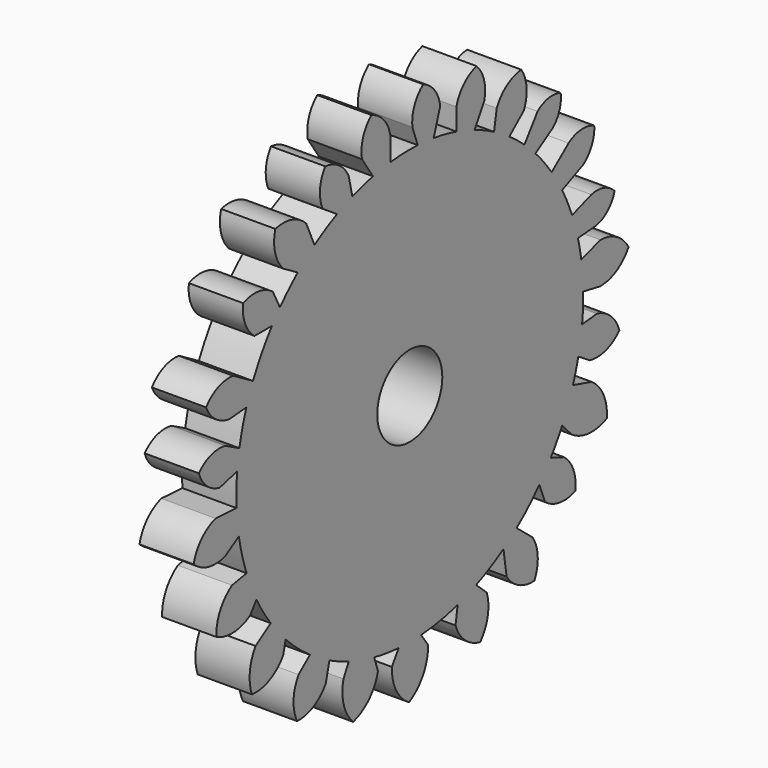
from build123d import *

# Parameters (mm, degrees)
SKETCH002_R  = 7.5
PAD001_DEPTH = 10


with BuildPart() as part:
    # Sketch002 → Pad001 (new body)
    with BuildSketch(Plane.YZ):
        with BuildLine():
            ThreePointArc((-7.372881, -40.094264), (-3.126041, -39.586192), (1.04227, -38.627568))
            Line((1.04227, -38.627568), (0.551182, -41.772804))
            ThreePointArc((0.551182, -41.772804), (2.72771, -45.044909), (6.248691, -46.790371))
            ThreePointArc((6.248691, -46.790371), (7.994153, -43.26939), (7.745277, -39.3474))
            Line((5.322974, -37.131356), (7.745277, -39.3474))
            ThreePointArc((5.322974, -37.131356), (8.537274, -35.628587), (11.605754, -33.846883))
            Line((11.605754, -33.846883), (12.333348, -38.63991))
            ThreePointArc((12.333348, -38.63991), (15.097939, -41.134767), (18.739574, -41.913081))
            ThreePointArc((18.739574, -41.913081), (19.517888, -38.271446), (18.37111, -34.728541))
            Line((14.654104, -31.683604), (18.37111, -34.728541))
            ThreePointArc((14.654104, -31.683604), (17.378229, -29.347876), (19.882066, -26.777412))
            Line((19.882066, -26.777412), (21.219608, -30.122295))
            ThreePointArc((21.219608, -30.122295), (24.552318, -31.581454), (28.168109, -31.178768))
            ThreePointArc((28.168109, -31.178768), (27.765423, -27.562977), (25.608791, -24.632953))
            Line((22.518982, -23.480322), (25.608791, -24.632953))
            ThreePointArc((22.518982, -23.480322), (23.893543, -21.431633), (25.139192, -19.302101))
            Line((25.139192, -19.302101), (27.359533, -21.66958))
            ThreePointArc((27.359533, -21.66958), (31.317426, -23.081877), (35.451211, -22.326017))
            ThreePointArc((35.451211, -22.326017), (34.69535, -18.192232), (31.973863, -14.9902))
            Line((27.63708, -13.740754), (31.973863, -14.9902))
            ThreePointArc((27.63708, -13.740754), (28.311222, -11.699588), (28.874738, -9.625154))
            Line((28.874738, -9.625154), (31.548764, -11.314179))
            ThreePointArc((31.548764, -11.314179), (35.22362, -11.182883), (38.340491, -9.231748))
            ThreePointArc((38.340491, -9.231748), (36.389357, -6.114877), (33.141189, -4.391155))
            Line((29.744589, -4.744157), (33.141189, -4.391155))
            ThreePointArc((29.744589, -4.744157), (29.958098, -2.133322), (30.00026, 0.485889))
            Line((30.00026, 0.485889), (33.921496, -0.257635))
            ThreePointArc((33.921496, -0.257635), (37.68409, 0.725166), (40.451192, 3.457594))
            ThreePointArc((40.451192, 3.457594), (37.718763, 6.224696), (33.968861, 7.254862))
            Line((29.545098, 5.873223), (33.968861, 7.254862))
            ThreePointArc((29.545098, 5.873223), (29.208197, 7.767875), (28.780562, 9.644132))
            Line((28.780562, 9.644132), (33.177289, 10.00993))
            ThreePointArc((33.177289, 10.00993), (35.728214, 11.395702), (37.244494, 13.871278))
            ThreePointArc((37.244494, 13.871278), (34.768918, 15.387558), (31.866866, 15.462907))
            Line((27.436049, 13.925673), (31.866866, 15.462907))
            ThreePointArc((27.436049, 13.925673), (26.375433, 16.470589), (25.142027, 18.936397))
            Line((25.142027, 18.936397), (29.967849, 21.069522))
            ThreePointArc((29.967849, 21.069522), (31.970773, 23.393509), (32.543362, 26.407602))
            ThreePointArc((32.543362, 26.407602), (29.529269, 26.980191), (26.632693, 25.969022))
            Line((22.726486, 22.827517), (26.632693, 25.969022))
            ThreePointArc((22.726486, 22.827517), (20.942152, 25.176066), (18.98961, 27.386747))
            Line((18.98961, 27.386747), (22.859671, 29.824034))
            ThreePointArc((22.859671, 29.824034), (24.506903, 32.07831), (24.80631, 34.854187))
            ThreePointArc((24.80631, 34.854187), (22.030434, 35.153594), (19.476751, 34.02495))
            Line((16.440698, 29.839688), (19.476751, 34.02495))
            ThreePointArc((16.440698, 29.839688), (14.740616, 31.25523), (12.964876, 32.574618))
            Line((12.964876, 32.574618), (16.319999, 35.447081))
            ThreePointArc((16.319999, 35.447081), (16.941471, 38.969468), (15.718489, 42.330681))
            ThreePointArc((15.718489, 42.330681), (12.357276, 41.107698), (10.057871, 38.367958))
            Line((9.433448, 34.784975), (10.057871, 38.367958))
            ThreePointArc((9.433448, 34.784975), (7.223624, 35.924417), (4.947279, 36.924367))
            Line((4.947279, 36.924367), (7.1719, 40.70615))
            ThreePointArc((7.1719, 40.70615), (7.147067, 44.138089), (5.409592, 47.097818))
            ThreePointArc((5.409592, 47.097818), (2.449862, 45.360343), (0.755399, 42.37578))
            Line((0.780338, 38.341298), (0.755399, 42.37578))
            ThreePointArc((0.780338, 38.341298), (-1.831547, 38.978037), (-4.480302, 39.437893))
            Line((-4.480302, 39.437893), (-2.979924, 44.013792))
            ThreePointArc((-2.979924, 44.013792), (-4.253731, 47.105339), (-6.902654, 49.145794))
            ThreePointArc((-6.902654, 49.145794), (-8.943109, 46.496871), (-9.385733, 43.182609))
            Line((-8.16746, 39.778019), (-9.385733, 43.182609))
            ThreePointArc((-8.16746, 39.778019), (-11.333059, 39.797339), (-14.490272, 39.566265))
            Line((-14.490272, 39.566265), (-14.490272, 43.98748))
            ThreePointArc((-14.490272, 43.98748), (-15.999307, 47.081093), (-18.852977, 49.005722))
            ThreePointArc((-18.852977, 49.005722), (-20.777606, 46.152053), (-21.01755, 42.718388))
            Line((-18.483952, 38.908421), (-21.01755, 42.718388))
            ThreePointArc((-18.483952, 38.908421), (-20.883273, 38.309075), (-23.240971, 37.562604))
            Line((-23.240971, 37.562604), (-24.06091, 41.171638))
            ThreePointArc((-24.06091, 41.171638), (-26.267629, 43.82088), (-29.503325, 45.011832))
            ThreePointArc((-29.503325, 45.011832), (-30.694276, 41.776136), (-30.107822, 38.378465))
            Line((-26.761898, 36.135645), (-30.107822, 38.378465))
            ThreePointArc((-26.761898, 36.135645), (-29.419041, 34.786526), (-31.968369, 33.24333))
            Line((-31.968369, 33.24333), (-33.870535, 37.498149))
            ThreePointArc((-33.870535, 37.498149), (-37.164485, 39.463014), (-40.999563, 39.517661))
            ThreePointArc((-40.999563, 39.517661), (-41.05421, 35.682584), (-39.183997, 32.333986))
            Line((-35.835479, 30.35216), (-39.183997, 32.333986))
            ThreePointArc((-35.835479, 30.35216), (-37.957964, 28.420932), (-39.93653, 26.342505))
            Line((-39.93653, 26.342505), (-41.575001, 29.566843))
            ThreePointArc((-41.575001, 29.566843), (-44.88038, 30.944013), (-48.431509, 30.483987))
            ThreePointArc((-48.431509, 30.483987), (-47.971483, 26.932859), (-45.797525, 24.087505))
            Line((-41.791617, 24.087505), (-45.797525, 24.087505))
            ThreePointArc((-41.791617, 24.087505), (-44.160781, 20.619854), (-46.153311, 16.922914))
            Line((-46.153311, 16.922914), (-50.742028, 19.632063))
            ThreePointArc((-50.742028, 19.632063), (-54.205982, 19.16463), (-56.972138, 17.027844))
            ThreePointArc((-56.972138, 17.027844), (-54.835352, 14.261689), (-51.601763, 12.934521))
            Line((-47.669302, 13.257985), (-51.601763, 12.934521))
            ThreePointArc((-47.669302, 13.257985), (-48.596186, 10.30241), (-49.291589, 7.283975))
            Line((-49.291589, 7.283975), (-52.532451, 8.985395))
            ThreePointArc((-52.532451, 8.985395), (-55.852169, 8.811227), (-58.640045, 7.000533))
            ThreePointArc((-58.640045, 7.000533), (-56.829351, 4.212658), (-53.867307, 2.703633))
            Line((-49.801546, 3.740797), (-53.867307, 2.703633))
            ThreePointArc((-49.801546, 3.740797), (-49.982641, 0.781001), (-49.943969, -2.184078))
            Line((-49.943969, -2.184078), (-54.793138, -1.899745))
            ThreePointArc((-54.793138, -1.899745), (-58.035986, -3.927121), (-59.830686, -7.304304))
            ThreePointArc((-59.830686, -7.304304), (-56.453504, -9.099004), (-52.631427, -8.964669))
            Line((-49.409647, -6.993613), (-52.631427, -8.964669))
            ThreePointArc((-49.409647, -6.993613), (-48.670532, -10.385186), (-47.640158, -13.69991))
            Line((-47.640158, -13.69991), (-50.982572, -14.298306))
            ThreePointArc((-50.982572, -14.298306), (-53.725014, -17.270261), (-54.614061, -21.21527))
            ThreePointArc((-54.614061, -21.21527), (-50.669052, -22.104317), (-46.808051, -20.90175))
            Line((-45.349568, -18.888466), (-46.808051, -20.90175))
            ThreePointArc((-45.349568, -18.888466), (-43.812217, -21.542392), (-42.076041, -24.070726))
            Line((-42.076041, -24.070726), (-45.563033, -26.35824))
            ThreePointArc((-45.563033, -26.35824), (-46.88137, -30.023623), (-46.405266, -33.889676))
            ThreePointArc((-46.405266, -33.889676), (-42.308675, -33.202292), (-39.189808, -30.458714))
            Line((-38.622542, -28.116203), (-39.189808, -30.458714))
            ThreePointArc((-38.622542, -28.116203), (-35.930016, -30.632391), (-33.017345, -32.8901))
            Line((-33.017345, -32.8901), (-35.637207, -35.045193))
            ThreePointArc((-35.637207, -35.045193), (-36.797466, -38.717464), (-35.966145, -42.477874))
            ThreePointArc((-35.966145, -42.477874), (-32.205735, -41.646553), (-29.364786, -39.046402))
            Line((-28.526262, -35.628271), (-29.364786, -39.046402))
            ThreePointArc((-28.526262, -35.628271), (-26.329852, -36.692522), (-24.072624, -37.620837))
            Line((-24.072624, -37.620837), (-25.290637, -39.948337))
            ThreePointArc((-25.290637, -39.948337), (-25.224166, -44.200892), (-23.040323, -47.850478))
            ThreePointArc((-23.040323, -47.850478), (-19.390737, -45.666635), (-17.322024, -41.950579))
            Line((-18.195367, -39.33048), (-17.322024, -41.950579))
            ThreePointArc((-18.195367, -39.33048), (-15.388372, -39.814864), (-12.554022, -40.098254))
            Line((-12.554022, -40.098254), (-14.133284, -42.536876))
            ThreePointArc((-14.133284, -42.536876), (-13.138594, -46.750559), (-10.168772, -49.900906))
            ThreePointArc((-10.168772, -49.900906), (-6.910841, -46.753818), (-5.771565, -42.36972))
            Line((-7.372881, -40.094264), (-5.771565, -42.36972))
        make_face()
        with Locations((-9.994192, -0.180247)):
            Circle(SKETCH002_R, mode=Mode.SUBTRACT)
    extrude(amount=PAD001_DEPTH)


with BuildPart() as part_1:
    # Body001 placement: moved
    add(part.part.moved(Location((496, -1216, -128))))


solid = part_1.part
